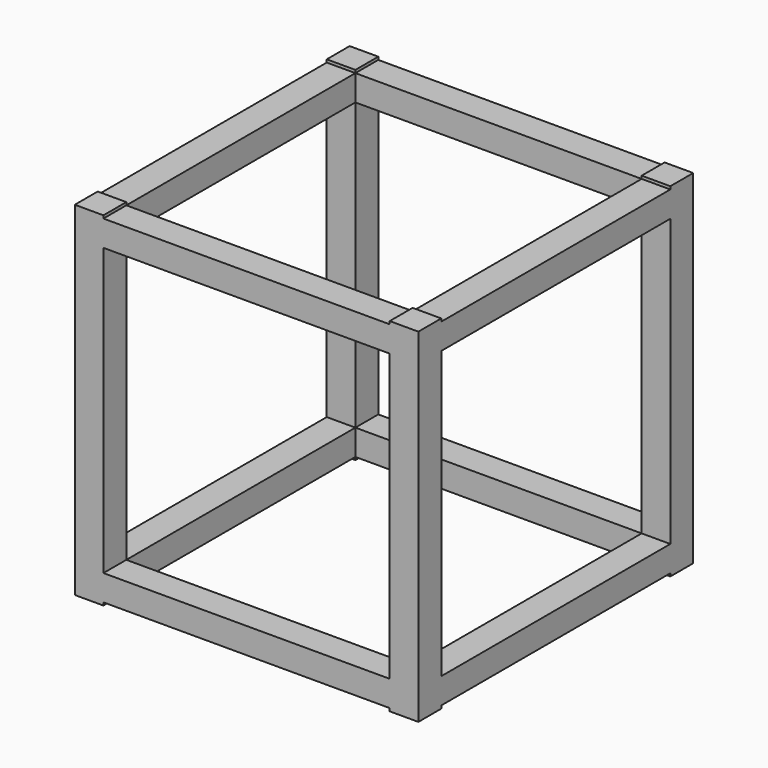
from build123d import *

# Parameters (mm, degrees)
F0_W     = 50
F0_H     = 50
F1_DEPTH = 60
F3_DEPTH = 60
F2_W     = 50
F2_H     = 50
F2_H_2   = 19.5
F2_H_3   = 0.5
F2_H_4   = 15
F4_DEPTH = 60
F6_W     = 50
F6_H     = 50
F7_DEPTH = 60


with BuildPart() as f1:
    # F0 (on Right) → F1 (new body)
    with BuildSketch(Plane.YZ):
        Polygon((55, 59.5), (5, 59.5), (5, 60), (0, 60), (0, 0), (5, 0), (5, 0.5), (55, 0.5), (55, 0), (60, 0), (60, 60), (55, 60), align=None)
        with Locations((30, 30)):
            Rectangle(F0_W, F0_H, mode=Mode.SUBTRACT)
    extrude(amount=F1_DEPTH)

    # F0 (on Right) → F3 (join)
    with BuildSketch(Plane.YZ):
        Polygon((55, 59.5), (5, 59.5), (5, 60), (0, 60), (0, 0), (5, 0), (5, 0.5), (55, 0.5), (55, 0), (60, 0), (60, 60), (55, 60), align=None)
        with Locations((30, 30)):
            Rectangle(F0_W, F0_H, mode=Mode.SUBTRACT)
    extrude(amount=F3_DEPTH)

    # F2 (on face) → F4 (cut)
    with BuildSketch(Plane.XZ):
        with Locations((30, 30)):
            Rectangle(F2_W, F2_H)
        with Locations((30, -9.75)):
            Rectangle(F2_W, F2_H_2)
        with Locations((30, 59.75)):
            Rectangle(F2_W, F2_H_3)
        with Locations((30, 0.25)):
            Rectangle(F2_W, F2_H_3)
        with Locations((30, 67.5)):
            Rectangle(F2_W, F2_H_4)
    extrude(amount=-F4_DEPTH, mode=Mode.SUBTRACT)

    # F6 (on offset) → F7 (cut)
    with BuildSketch(Plane.XY.offset(60)):
        with Locations((30, 30)):
            Rectangle(F6_W, F6_H)
    extrude(amount=-F7_DEPTH, mode=Mode.SUBTRACT)


solid = f1.part
